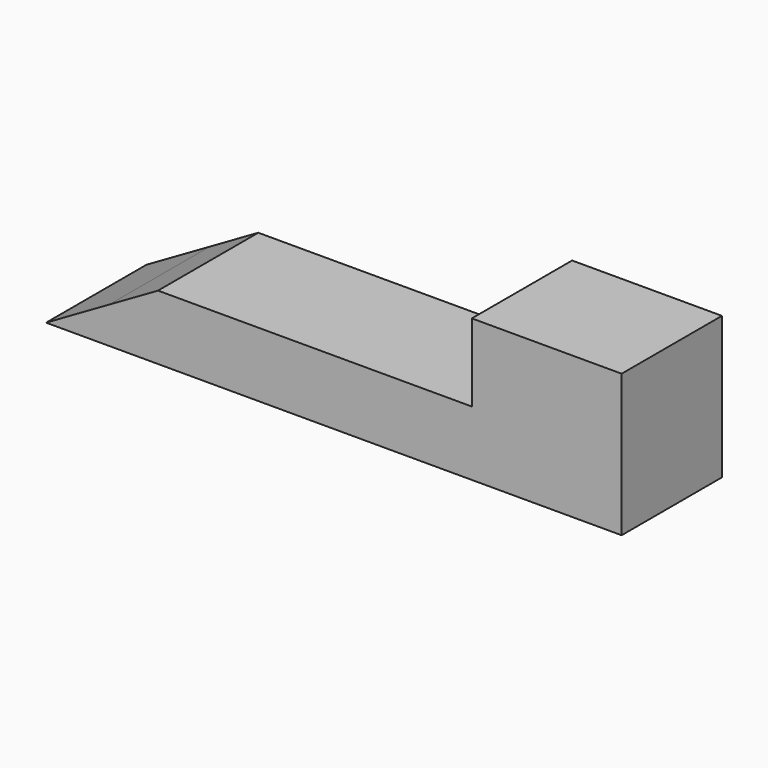
from build123d import *

# Parameters (mm, degrees)
F1_DEPTH = 7.95


with BuildPart() as f1:
    # F0 (on Front) → F1 (new body)
    with BuildSketch(Plane.XZ):
        Polygon((4, 2.309401), (0, 0), (36.5, 0), (36.5, 9.02), (27, 9.02), (27, 4.098076), (27, 2.309401), align=None)
        Polygon((7.098076, 4.098076), (4, 2.309401), (27, 2.309401), (27, 4.098076), align=None)
    extrude(amount=F1_DEPTH)


solid = f1.part
